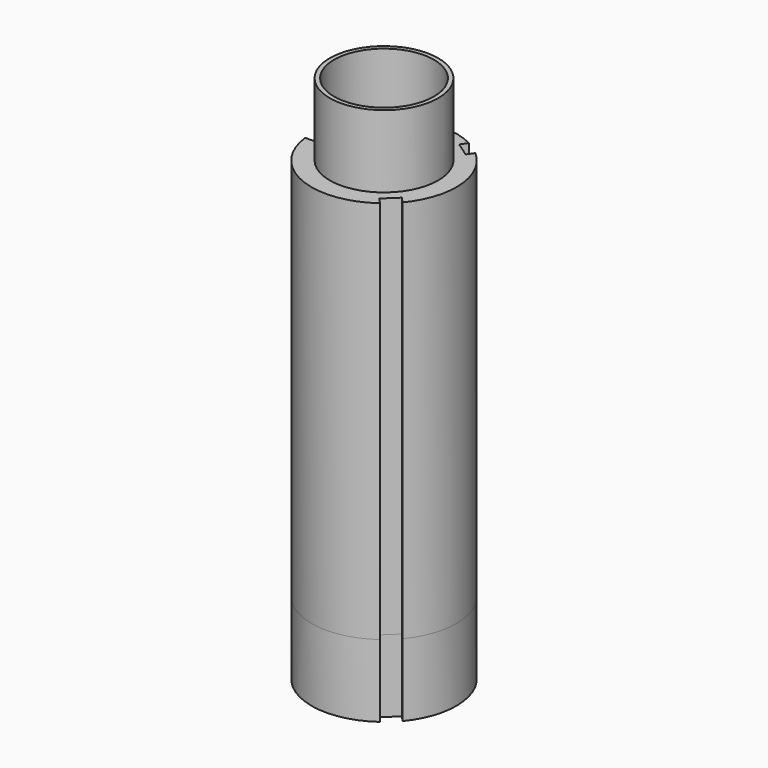
from build123d import *

# Parameters (mm, degrees)
F0_R        = 9.5
F1_DEPTH    = 67.31
F2_R        = 9.4996
F2_R_2      = 8.7503
F3_DEPTH    = 80
F3_FACE_R   = 9.4996
F3_FACE_R_2 = 8.7503
F1_FACE_R   = 9.5
F4_DEPTH    = 12.7


with BuildPart() as f1:
    # F0 (on Top) → F1 (new body)
    with BuildSketch(Plane.XY):
        with BuildLine():
            Line((8.803368, -7.107994), (9.759883, -8.126173))
            ThreePointArc((9.759883, -8.126173), (12.663265, 0.965262), (8.415437, 9.511594))
            Line((8.415437, 9.511594), (7.624299, 8.360199))
            Line((7.624299, 8.360199), (5.070296, 10.115086))
            Line((5.070296, 10.115086), (5.861433, 11.266481))
            ThreePointArc((5.861433, 11.266481), (-5.888662, 11.252274), (-12.598037, 1.606072))
            Line((-12.598037, 1.606072), (-11.213638, 1.606072))
            Line((-11.213638, 1.606072), (-11.213638, -1.503928))
            Line((-11.213638, -1.503928), (-12.610638, -1.503928))
            ThreePointArc((-12.610638, -1.503928), (-5.063634, -11.646871), (7.501375, -10.247896))
            Line((7.501375, -10.247896), (6.544861, -9.229716))
            Line((6.544861, -9.229716), (8.803368, -7.107994))
        make_face()
        Circle(F0_R, mode=Mode.SUBTRACT)
    extrude(amount=F1_DEPTH)


with BuildPart() as f3:
    # F2 (on Top) → F3 (new body)
    with BuildSketch(Plane.XY):
        Circle(F2_R)
        Circle(F2_R_2, mode=Mode.SUBTRACT)
    extrude(amount=F3_DEPTH)


with BuildPart() as f4:
    # F3_face (on face) + F1_face (on face) → F4 (new body)
    with BuildSketch(Plane(origin=(0, 0, 0), x_dir=(1, 0, 0), z_dir=(0, 0, -1))):
        Circle(F3_FACE_R)
        Circle(F3_FACE_R_2, mode=Mode.SUBTRACT)
    with BuildSketch(Plane(origin=(-0.064741, -0.025632, 0), x_dir=(1, 0, 0), z_dir=(0, 0, -1))):
        with BuildLine():
            ThreePointArc((7.566116, 10.222264), (-4.998893, 11.62124), (-12.545898, 1.478297))
            Line((-12.545898, 1.478297), (-11.148898, 1.478297))
            Line((-11.148898, 1.478297), (-11.148898, -1.631703))
            Line((-11.148898, -1.631703), (-12.533296, -1.631703))
            ThreePointArc((-12.533296, -1.631703), (-5.823921, -11.277905), (5.926174, -11.292113))
            Line((5.926174, -11.292113), (5.135036, -10.140718))
            Line((5.135036, -10.140718), (7.68904, -8.385831))
            Line((7.68904, -8.385831), (8.480177, -9.537226))
            ThreePointArc((8.480177, -9.537226), (12.728005, -0.990894), (9.824623, 8.100542))
            Line((9.824623, 8.100542), (8.868109, 7.082362))
            Line((8.868109, 7.082362), (6.609602, 9.204085))
            Line((6.609602, 9.204085), (7.566116, 10.222264))
        make_face()
        with Locations((0.064741, -0.025632)):
            Circle(F1_FACE_R, mode=Mode.SUBTRACT)
    extrude(amount=F4_DEPTH)


solid = Compound([f1.part, f3.part, f4.part])
